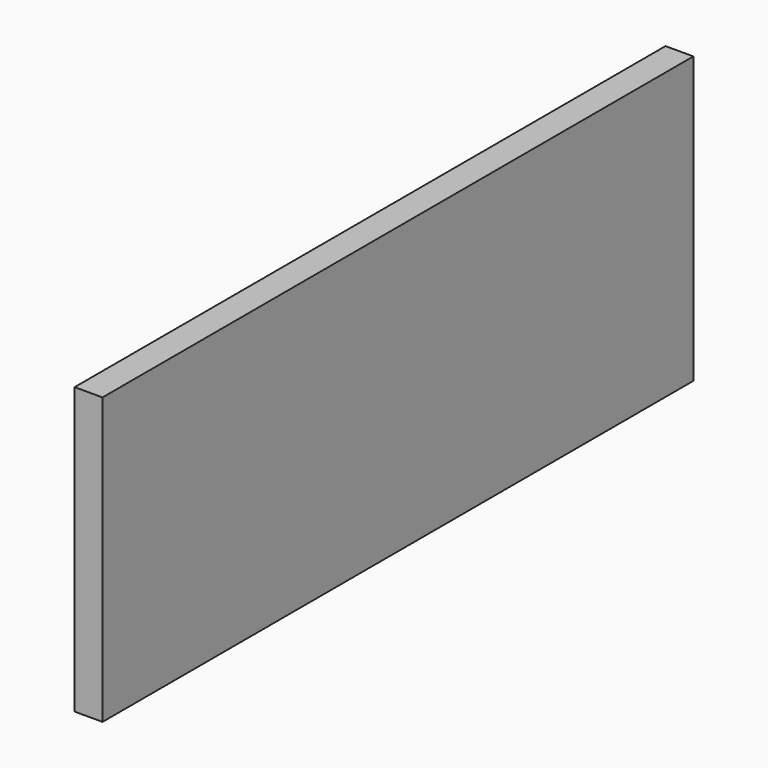
from build123d import *

# Parameters (mm, degrees)
F0_W     = 365
F0_H     = 530
F1_DEPTH = 10
F2_W     = 325
F2_H     = 20
F3_DEPTH = 195
F4_W     = 345
F4_H     = 530
F5_DEPTH = 205.001


with BuildPart() as f1:
    # F0 (on Top) → F1 (new body)
    with BuildSketch(Plane.XY):
        Rectangle(F0_W, F0_H)
    extrude(amount=F1_DEPTH)

    # F2 (on face) → F3 (join)
    with BuildSketch(Plane.XY.offset(10)):
        Polygon((-162.5, 265), (-182.5, 265), (-182.5, -265), (-162.5, -265), (-162.5, -245), (-162.5, 245), align=None)
        with Locations((0, 255)):
            Rectangle(F2_W, F2_H)
        Polygon((182.5, 265), (162.5, 265), (162.5, 245), (162.5, -245), (162.5, -265), (182.5, -265), align=None)
        with Locations((0, -255)):
            Rectangle(F2_W, F2_H)
    extrude(amount=F3_DEPTH)

    # F4 (on face) → F5 (cut, through all)
    with BuildSketch(Plane.XY.offset(205)):
        with Locations((10, 0)):
            Rectangle(F4_W, F4_H)
        with Locations((10, 0)):
            Rectangle(F4_W, F4_H)
    extrude(amount=-F5_DEPTH, mode=Mode.SUBTRACT)


solid = f1.part
